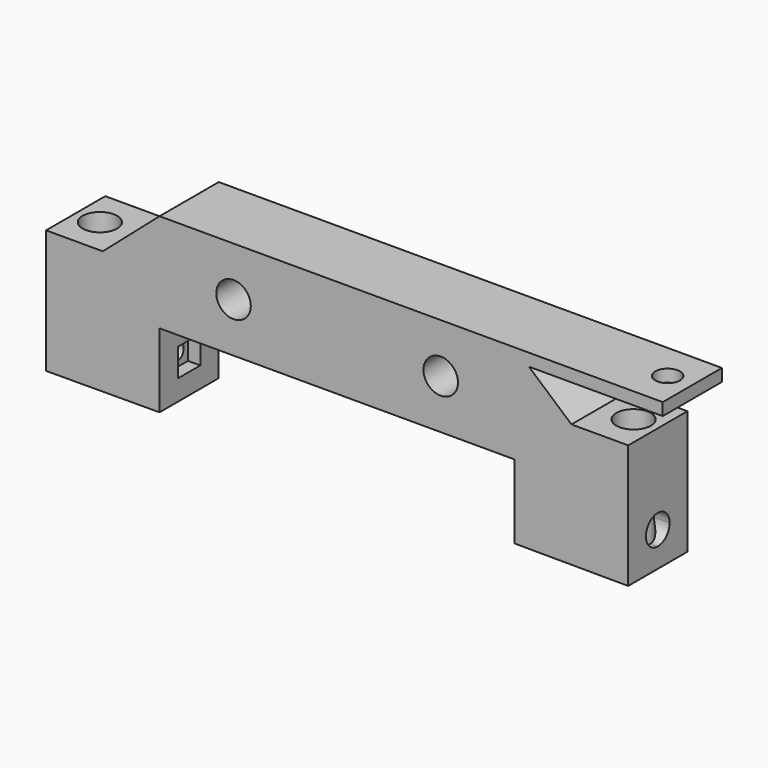
from build123d import *

# Parameters (mm, degrees)
F0_R      = 3.5
F1_DEPTH  = 15
F5_DEPTH  = 23
F6_DEPTH  = 19
F2_R      = 3.5
F7_DEPTH  = 26
F8_DEPTH  = 2.5
F12_DEPTH = 19
F13_DEPTH = 23
F14_DEPTH = 2.5
F15_DEPTH = 25.1
F16_R     = 2.5
F17_DEPTH = 25


with BuildPart() as f1:
    # F0 (on Front) → F1 (new body)
    with BuildSketch(Plane.XZ):
        Polygon((36, 10), (-36, 10), (-36, 0), (-36, -10), (36, -10), (36, 0), (36, 7.5), align=None)
        with Locations((-21, 0)):
            Circle(F0_R, mode=Mode.SUBTRACT)
        with Locations((21, 0)):
            Circle(F0_R, mode=Mode.SUBTRACT)
        Polygon((-36, 0), (-36, 10), (-47.5, 0), align=None)
        Polygon((38.875, 7.5), (36, 10), (36, 7.5), align=None)
        Polygon((66, 10), (36, 10), (38.875, 7.5), (66, 7.5), align=None)
        Polygon((-36, -10), (-36, 0), (-47.5, 0), (-59, 0), (-59, -10), align=None)
        Polygon((38.875, 7.5), (36, 7.5), (36, 0), (47.5, 0), align=None)
        Polygon((-36, -25), (-36, -10), (-59, -10), (-59, -25.0883084536), align=None)
        Polygon((47.5, 0), (36, 0), (36, -10), (36, -25), (59, -25.0883084536), (59, -10), (59, 0), align=None)
    extrude(amount=F1_DEPTH)

    # F3 (on face) → F5 (cut)
    with BuildSketch(Plane.YZ.offset(59)):
        with BuildLine():
            ThreePointArc((-5.75, -18.0883084536), (-8.7374368671, -16.8508715865), (-7.5, -19.8383084536))
            ThreePointArc((-7.5, -19.8383084536), (-6.2625631329, -19.3257453206), (-5.75, -18.0883084536))
        make_face()
    extrude(amount=-F5_DEPTH, mode=Mode.SUBTRACT)

    # F3 (on face) → F6 (cut)
    with BuildSketch(Plane.YZ.offset(59)):
        with BuildLine():
            ThreePointArc((-4.5, -18.0883084536), (-9.6213203436, -15.96698811), (-7.5, -21.0883084536))
            ThreePointArc((-7.5, -21.0883084536), (-5.3786796564, -20.2096287971), (-4.5, -18.0883084536))
        make_face()
        with BuildLine():
            ThreePointArc((-5.75, -18.0883084536), (-6.2625631329, -19.3257453206), (-7.5, -19.8383084536))
            ThreePointArc((-7.5, -19.8383084536), (-8.7374368671, -16.8508715865), (-5.75, -18.0883084536))
        make_face(mode=Mode.SUBTRACT)
    extrude(amount=-F6_DEPTH, mode=Mode.SUBTRACT)

    # F2 (on face) → F7 (cut)
    with BuildSketch(Plane(origin=(-0.0954553395, 0, -24.8614115721), x_dir=(0.9999926292, 0, -0.0038394697), z_dir=(-0.0038394697, 0, -0.9999926292))):
        with Locations((54.095890923, 7.5)):
            Circle(F2_R)
    extrude(amount=-F7_DEPTH, mode=Mode.SUBTRACT)

    # F4 (on face) → F8 (cut)
    with BuildSketch(Plane(origin=(36, 0, 0), x_dir=(0, -1, 0), z_dir=(-1, 0, 0))):
        Polygon((4.675, -20.825), (7.5, -20.825), (10.325, -20.825), (10.325, -15.175), (4.675, -15.175), align=None)
    extrude(amount=-F8_DEPTH, mode=Mode.SUBTRACT)

    # F9 (on face) → F12 (cut)
    with BuildSketch(Plane(origin=(-59, 0, 0), x_dir=(0, -1, 0), z_dir=(-1, 0, 0))):
        with BuildLine():
            ThreePointArc((10.5, -18.0883084536), (5.3786796564, -15.96698811), (7.5, -21.0883084536))
            ThreePointArc((7.5, -21.0883084536), (9.6213203436, -20.2096287971), (10.5, -18.0883084536))
        make_face()
        with BuildLine():
            ThreePointArc((9.25, -18.0883084536), (8.7374368671, -19.3257453206), (7.5, -19.8383084536))
            ThreePointArc((7.5, -19.8383084536), (6.2625631329, -16.8508715865), (9.25, -18.0883084536))
        make_face(mode=Mode.SUBTRACT)
    extrude(amount=-F12_DEPTH, mode=Mode.SUBTRACT)

    # F9 (on face) → F13 (cut)
    with BuildSketch(Plane(origin=(-59, 0, 0), x_dir=(0, -1, 0), z_dir=(-1, 0, 0))):
        with BuildLine():
            ThreePointArc((9.25, -18.0883084536), (6.2625631329, -16.8508715865), (7.5, -19.8383084536))
            ThreePointArc((7.5, -19.8383084536), (8.7374368671, -19.3257453206), (9.25, -18.0883084536))
        make_face()
    extrude(amount=-F13_DEPTH, mode=Mode.SUBTRACT)

    # F10 (on face) → F14 (cut)
    with BuildSketch(Plane.YZ.offset(-36)):
        Polygon((-10.325, -20.825), (-7.5, -20.825), (-4.675, -20.825), (-4.675, -15.175), (-10.325, -15.175), align=None)
    extrude(amount=-F14_DEPTH, mode=Mode.SUBTRACT)

    # F11 (on face) → F15 (cut)
    with BuildSketch(Plane(origin=(0.0954553395, 0, -24.8614115721), x_dir=(0.9999926292, 0, 0.0038394697), z_dir=(0.0038394697, 0, -0.9999926292))):
        with BuildLine():
            ThreePointArc((-50.595890923, 7.5), (-54.095890923, 11), (-57.595890923, 7.5))
            ThreePointArc((-57.595890923, 7.5), (-54.095890923, 4), (-50.595890923, 7.5))
        make_face()
    extrude(amount=-F15_DEPTH, mode=Mode.SUBTRACT)

    # F16 (on face) → F17 (cut)
    with BuildSketch(Plane(origin=(0, 0, 7.5), x_dir=(1, 0, 0), z_dir=(0, 0, -1))):
        with Locations((61, 7.5)):
            Circle(F16_R)
    extrude(amount=-F17_DEPTH, mode=Mode.SUBTRACT)


solid = f1.part
